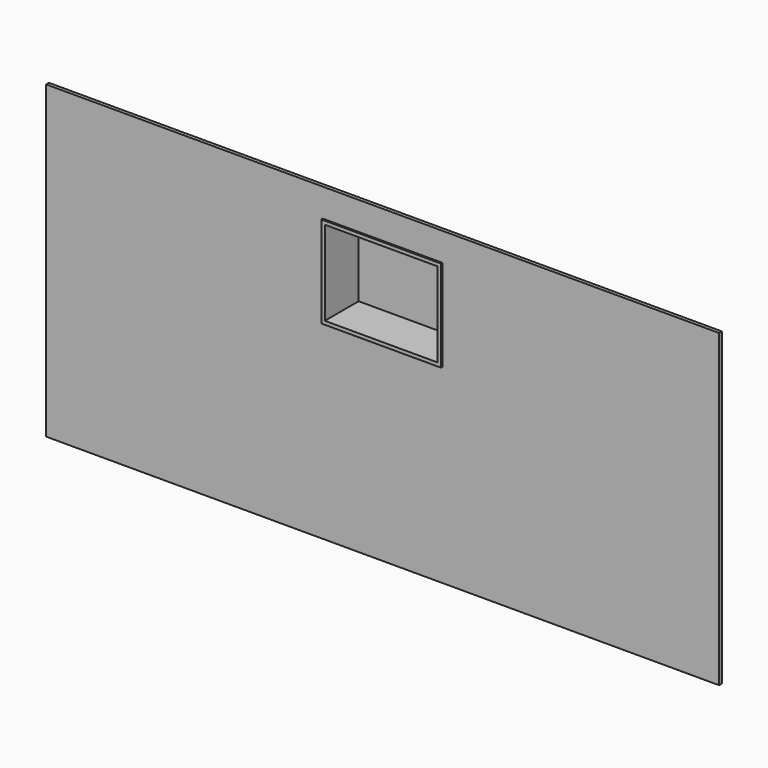
from build123d import *

# Parameters (mm, degrees)
F0_W     = 606.425
F0_H     = 279.4
F1_DEPTH = 3.175
F2_W     = 107.95
F2_H     = 82.55
F3_DEPTH = 38.1
F4_DEPTH = 1.5875
F5_W     = 101.6
F5_H     = 76.2
F6_DEPTH = 38.1


with BuildPart() as f1:
    # F0 (on Front) → F1 (new body)
    with BuildSketch(Plane.XZ):
        Rectangle(F0_W, F0_H)
    extrude(amount=F1_DEPTH)

    # F2 (on face) → F3 (join)
    with BuildSketch(Plane.XZ.offset(3.175)):
        with Locations((0, 73.025)):
            Rectangle(F2_W, F2_H)
    extrude(amount=-F3_DEPTH)

    # F2 (on face) → F4 (join)
    with BuildSketch(Plane.XZ.offset(3.175)):
        with Locations((0, 73.025)):
            Rectangle(F2_W, F2_H)
    extrude(amount=F4_DEPTH)

    # F5 (on face) → F6 (cut)
    with BuildSketch(Plane.XZ.offset(4.7625)):
        with Locations((0, 73.025)):
            Rectangle(F5_W, F5_H)
    extrude(amount=-F6_DEPTH, mode=Mode.SUBTRACT)


solid = f1.part
